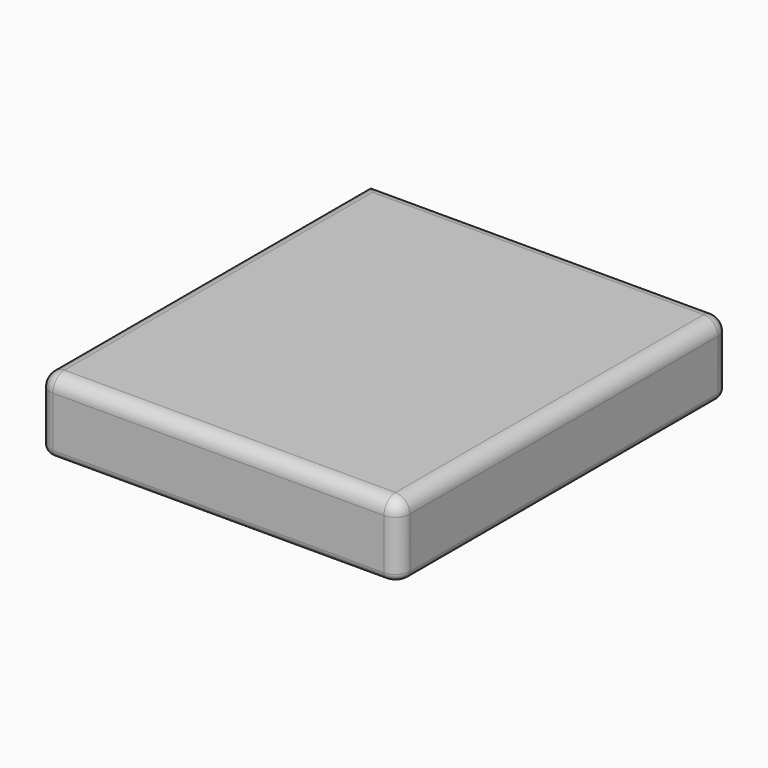
from build123d import *

# Parameters (mm, degrees)
F0_W     = 254
F0_H     = 254
F1_DEPTH = 50.8
F2_DEPTH = 38.1
F3_R     = 10.16
F4_R     = 10.16
F5_R     = 10.16
F6_R     = 5.08


with BuildPart() as f1:
    # F0 (on Top) → F1 (new body)
    with BuildSketch(Plane.XY):
        Rectangle(F0_W, F0_H)
    extrude(amount=F1_DEPTH)

    # F2 (add): a face of the model
    f2_faces = [f1.faces().sort_by_distance(p)[0] for p in [
        (0, -127, 25.4),
    ]]
    extrude(f2_faces, amount=F2_DEPTH)

    # F3
    f3_edges = [f1.edges().sort_by_distance(p)[0] for p in [
        (0, -165.1, 50.8),
    ]]
    fillet(f3_edges, radius=F3_R)

    # F4
    f4_edges = [f1.edges().sort_by_distance(p)[0] for p in [
        (127, -13.97, 50.8),
    ]]
    fillet(f4_edges, radius=F4_R)

    # F5
    f5_edges = [f1.edges().sort_by_distance(p)[0] for p in [
        (-5.08, 127, 50.8),
        (-127, -13.97, 50.8),
    ]]
    fillet(f5_edges, radius=F5_R)

    # F6
    f6_edges = [f1.edges().sort_by_distance(p)[0] for p in [
        (-127, -13.97, 0),
        (-5.08, 127, 0),
        (127, -19.05, 0),
        (0, -165.1, 0),
    ]]
    fillet(f6_edges, radius=F6_R)


solid = f1.part
